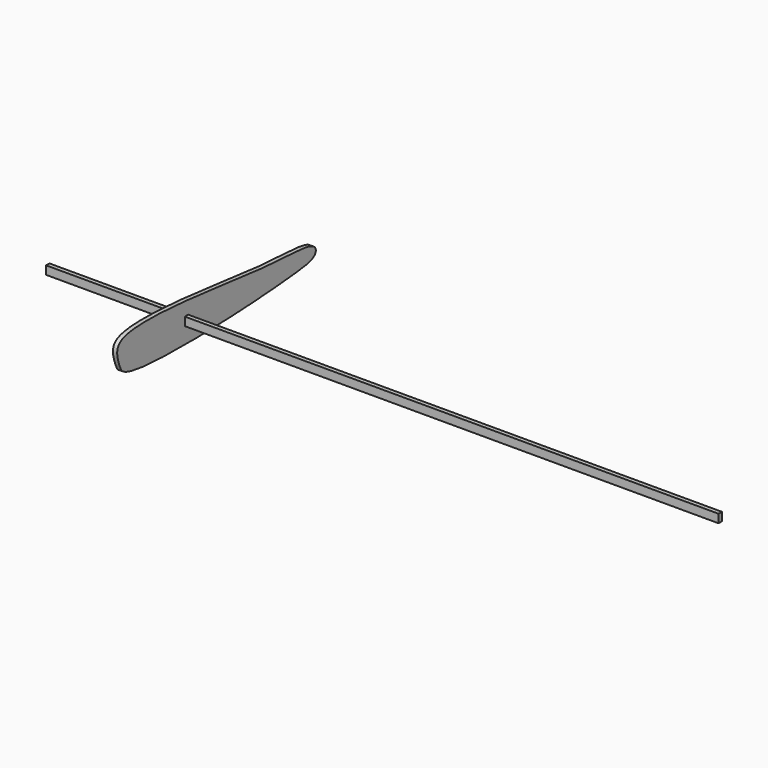
from build123d import *

# Parameters (mm, degrees)
F0_W     = 3.175
F0_H     = 6.35
F1_DEPTH = 508
F4_DEPTH = 3.175


with BuildPart() as f1:
    # F0 (on Right) → F1 (new body)
    with BuildSketch(Plane.YZ):
        with Locations((1.5875, 3.175)):
            Rectangle(F0_W, F0_H)
    extrude(amount=F1_DEPTH)


with BuildPart() as f4:
    # F3 (on offset) → F4 (new body)
    with BuildSketch(Plane.YZ.offset(101.6)):
        with BuildLine():
            add(Edge.make_bspline(
                [(-59.1322667897, -5.921034608), (-59.7301690588, -5.4427237975), (-60.5640651048, -4.1610473494), (-65.616797338, 8.3576688331), (-58.4422308277, 21.180158427), (19.465133599, 15.5948342105), (79.3405531906, 6.8932160963), (123.9642929763, 7.0089656707), (124.1557478275, -4.784967129), (99.5333186844, -8.2064893855), (23.7913947449, -13.4823262837), (-47.8677521796, -12.047107512), (-57.918200003, -6.8922656918), (-59.1322667897, -5.921034608)],
                knots=[0, 0, 0, 0, 0.0255782767, 0.0852642898, 0.1390330926, 0.2841803933, 0.4294349225, 0.533094384, 0.5721927643, 0.6474483696, 0.8028595918, 0.948062187, 1, 1, 1, 1], degree=3))
        make_face()
    extrude(amount=F4_DEPTH)


solid = Compound([f1.part, f4.part])
